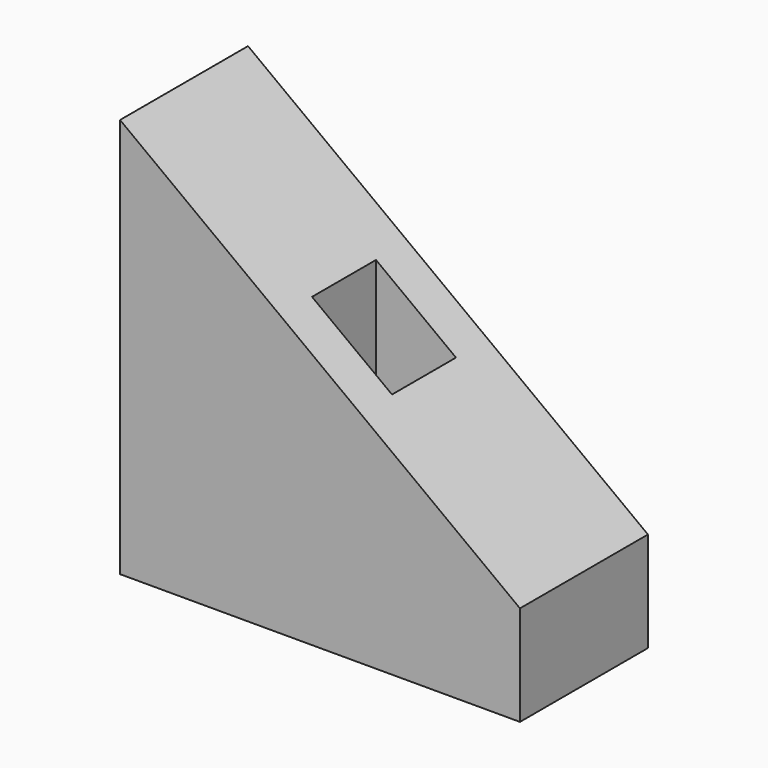
from build123d import *

# Parameters (mm, degrees)
F1_DEPTH = 40
F2_W     = 20
F2_H     = 20
F3_DEPTH = 100.001


with BuildPart() as f1:
    # F0 (on Front) → F1 (new body)
    with BuildSketch(Plane.XZ):
        Polygon((0, 100), (0, 0), (100, 0), (100, 25), align=None)
    extrude(amount=F1_DEPTH)

    # F2 (on face) → F3 (cut, through all)
    with BuildSketch(Plane(origin=(0, 0, 0), x_dir=(1, 0, 0), z_dir=(0, 0, -1))):
        with Locations((50, 20)):
            Rectangle(F2_W, F2_H)
    extrude(amount=-F3_DEPTH, mode=Mode.SUBTRACT)


solid = f1.part
